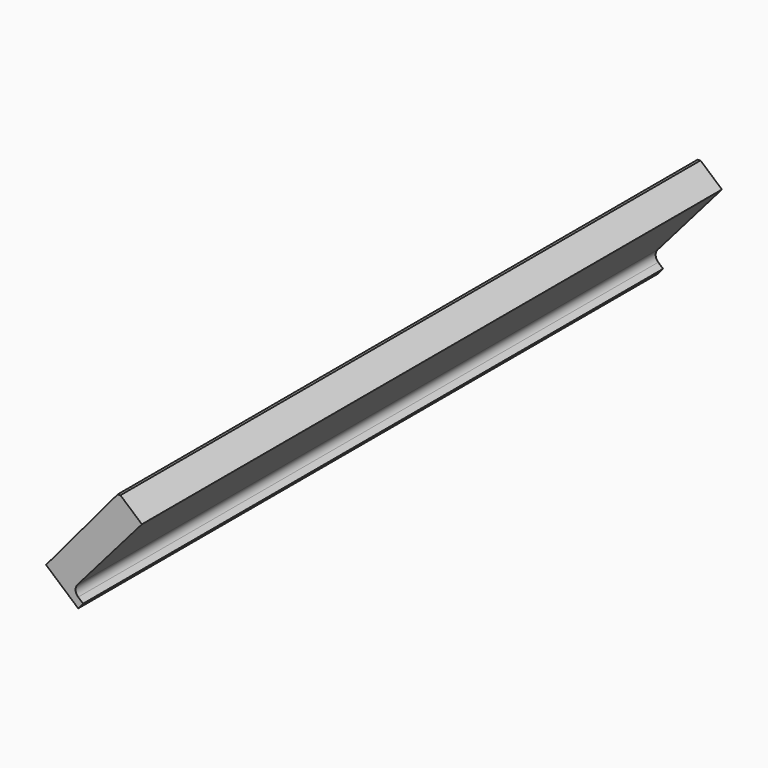
from build123d import *

# Parameters (mm, degrees)
BOX021_W               = 10
BOX021_H               = 100
BOX021_DEPTH           = 10
BOX021_PLACEMENT_ANGLE = 310
BOX022_W               = 16
BOX022_H               = 102
BOX022_DEPTH           = 3
BOX022_PLACEMENT_ANGLE = 310
BOX023_W               = 3
BOX023_H               = 102
BOX023_DEPTH           = 2
BOX009_W               = 14
BOX009_H               = 96
BOX009_DEPTH           = 5
BOX008_W               = 15
BOX008_H               = 96
BOX008_DEPTH           = 10
FILLET_R               = 1
FILLET_PLACEMENT_ANGLE = 311


with BuildPart() as cube021:
    # Box021 → Box021 (new body)
    with BuildSketch(Plane.XY):
        with Locations((5, 50)):
            Rectangle(BOX021_W, BOX021_H)
    extrude(amount=BOX021_DEPTH)


with BuildPart() as cube021_1:
    # Box021 placement: moved
    add(cube021.part.moved(Location((25, 1, -35))).rotate(Axis((25, 1, -35), (0, 1, 0)), BOX021_PLACEMENT_ANGLE))


with BuildPart() as cube022:
    # Box022 → Box022 (new body)
    with BuildSketch(Plane.XY):
        with Locations((8, 51)):
            Rectangle(BOX022_W, BOX022_H)
    extrude(amount=BOX022_DEPTH)


with BuildPart() as cube022_1:
    # Box022 placement: moved
    add(cube022.part.moved(Location((15.5, 0, -22))).rotate(Axis((15.5, 0, -22), (0, 1, 0)), BOX022_PLACEMENT_ANGLE))


with BuildPart() as fusion001:
    # Box023 → Box023 (new body)
    with BuildSketch(Plane(origin=(25.98, 0, -9.95), x_dir=(0, 0, 1), z_dir=(-1, 0, 0))):
        with Locations((1.5, 51)):
            Rectangle(BOX023_W, BOX023_H)
    extrude(amount=BOX023_DEPTH)

    # Fusion001: union Cube022
    add(cube022_1.part)


with BuildPart() as cube009:
    # Box009 → Box009 (new body)
    with BuildSketch(Plane(origin=(14, 2, -21), x_dir=(1, 0, 0), z_dir=(0, 0, 1))):
        with Locations((7, 48)):
            Rectangle(BOX009_W, BOX009_H)
    extrude(amount=BOX009_DEPTH)


with BuildPart() as cut013:
    # Box008 → Box008 (new body)
    with BuildSketch(Plane(origin=(13, 2, -21), x_dir=(1, 0, 0), z_dir=(0, 0, 1))):
        with Locations((7.5, 48)):
            Rectangle(BOX008_W, BOX008_H)
    extrude(amount=BOX008_DEPTH)

    # Cut002: cut Cube009
    add(cube009.part, mode=Mode.SUBTRACT)

    # Fillet
    fillet_edges = [cut013.edges().sort_by_distance(p)[0] for p in [
        (14, 50, -16),
    ]]
    fillet(fillet_edges, radius=FILLET_R)


with BuildPart() as cut013_1:
    # Fillet placement: moved
    add(cut013.part.moved(Location((-1.63, 0, -23.03))).rotate(Axis((-1.63, 0, -23.03), (0, 1, 0)), FILLET_PLACEMENT_ANGLE))

    # Cut012: cut Fusion001
    add(fusion001.part, mode=Mode.SUBTRACT)

    # Cut013: cut Cube021
    add(cube021_1.part, mode=Mode.SUBTRACT)


solid = cut013_1.part
